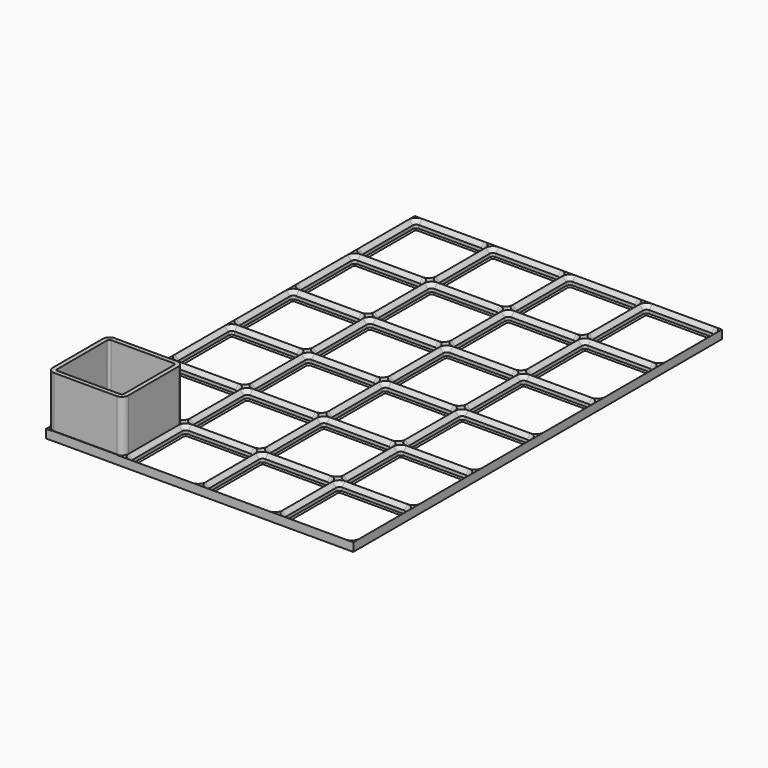
from build123d import *

# Parameters (mm, degrees)
SKETCH002_W            = 42
SKETCH002_H            = 42
LINEARPATTERN_COUNT    = 4
LINEARPATTERN_PITCH    = 42
LINEARPATTERN001_COUNT = 6
LINEARPATTERN001_PITCH = 42
LINEARPATTERN002_COUNT = 1
LINEARPATTERN002_PITCH = 0
LINEARPATTERN003_COUNT = 1
LINEARPATTERN003_PITCH = 0
PAD_DEPTH              = 28


with BuildPart() as base:
    # AdditivePipe: sweep along a path in Sketch003
    with BuildLine(Plane.XZ) as additivepipe_path:
        Line((-18.15, 0), (-18.15, -4.65))
    # Sketch002 → AdditivePipe (sweep)
    with BuildSketch(Plane.XY):
        Rectangle(SKETCH002_W, SKETCH002_H)
        with BuildLine():
            Line((-17, -18.15), (17, -18.15))
            ThreePointArc((17, -18.15), (17.813173, -17.813173), (18.15, -17))
            Line((18.15, -17), (18.15, 17))
            ThreePointArc((18.15, 17), (17.813173, 17.813173), (17, 18.15))
            Line((17, 18.15), (-17, 18.15))
            ThreePointArc((-17, 18.15), (-17.813173, 17.813173), (-18.15, 17))
            Line((-18.15, 17), (-18.15, -17))
            ThreePointArc((-18.15, -17), (-17.813173, -17.813173), (-17, -18.15))
        make_face(mode=Mode.SUBTRACT)
    sweep(path=additivepipe_path.line)

    # SubtractivePipe: sweep along a path in Sketch001
    with BuildLine(Plane.XY) as subtractivepipe_path:
        Line((21, -17), (21, 17))
        ThreePointArc((21, 17), (19.828427, 19.828427), (17, 21))
        Line((17, 21), (-17, 21))
        ThreePointArc((-17, 21), (-19.828427, 19.828427), (-21, 17))
        Line((-21, 17), (-21, -17))
        ThreePointArc((-21, -17), (-19.828427, -19.828427), (-17, -21))
        Line((-17, -21), (17, -21))
        ThreePointArc((17, -21), (19.828427, -19.828427), (21, -17))
    # Sketch → SubtractivePipe (sweep, cut)
    with BuildSketch(Plane.XZ):
        Polygon((-21, 0), (-18.85, -2.15), (-18.85, -3.95), (-18.15, -4.65), (-18.15, 0), align=None)
    sweep(path=subtractivepipe_path.line, mode=Mode.SUBTRACT)

    # LinearPattern: Base ×4


with BuildPart() as base_1:
    add(base.part)
    with Locations(*[(i * LINEARPATTERN_PITCH, 0, 0) for i in range(1, LINEARPATTERN_COUNT)]):
        add(base.part)

    # LinearPattern001: Base ×6


with BuildPart() as base_2:
    add(base_1.part)
    with Locations(*[(0, i * LINEARPATTERN001_PITCH, 0) for i in range(1, LINEARPATTERN001_COUNT)]):
        add(base_1.part)


with BuildPart() as basketfoot:
    # AdditivePipe001: sweep along a path in Sketch007
    with BuildLine(Plane.XZ) as additivepipe001_path:
        Line((-21, 0), (-21, -4.65))
    # Sketch006 → AdditivePipe001 (sweep)
    with BuildSketch(Plane.XY):
        with BuildLine():
            Line((-17, -20.75), (17, -20.75))
            ThreePointArc((17, -20.75), (19.65165, -19.65165), (20.75, -17))
            Line((20.75, -17), (20.75, 17))
            ThreePointArc((20.75, 17), (19.65165, 19.65165), (17, 20.75))
            Line((17, 20.75), (-17, 20.75))
            ThreePointArc((-17, 20.75), (-19.65165, 19.65165), (-20.75, 17))
            Line((-20.75, 17), (-20.75, -17))
            ThreePointArc((-20.75, -17), (-19.65165, -19.65165), (-17, -20.75))
        make_face()
    sweep(path=additivepipe001_path.line)

    # SubtractivePipe001: sweep along a path in Sketch005
    with BuildLine(Plane.XY) as subtractivepipe001_path:
        Line((-17, -21), (17, -21))
        ThreePointArc((17, -21), (19.828427, -19.828427), (21, -17))
        Line((21, -17), (21, 17))
        ThreePointArc((21, 17), (19.828427, 19.828427), (17, 21))
        Line((17, 21), (-17, 21))
        ThreePointArc((-17, 21), (-19.828427, 19.828427), (-21, 17))
        Line((-21, 17), (-21, -17))
        ThreePointArc((-21, -17), (-19.828427, -19.828427), (-17, -21))
    # Sketch004 → SubtractivePipe001 (sweep, cut)
    with BuildSketch(Plane.XZ):
        Polygon((-21, 0), (-18.85, -2.15), (-18.85, -3.95), (-18.15, -4.65), (-21, -4.65), align=None)
    sweep(path=subtractivepipe001_path.line, mode=Mode.SUBTRACT)

    # LinearPattern002: BasketFoot ×1


with BuildPart() as basketfoot_1:
    add(basketfoot.part)
    with Locations(*[(i * LINEARPATTERN002_PITCH, 0, 0) for i in range(1, LINEARPATTERN002_COUNT)]):
        add(basketfoot.part)

    # LinearPattern003: BasketFoot ×1


with BuildPart() as basketfoot_2:
    add(basketfoot_1.part)
    with Locations(*[(0, i * LINEARPATTERN003_PITCH, 0) for i in range(1, LINEARPATTERN003_COUNT)]):
        add(basketfoot_1.part)


with BuildPart() as basket:
    # Sketch008 → Pad (new body)
    with BuildSketch(Plane.XY):
        with BuildLine():
            Line((-20.5, 17.25), (-20.5, -17))
            ThreePointArc((-20.5, -17), (-19.474874, -19.474874), (-17, -20.5))
            Line((-17, -20.5), (17.25, -20.5))
            ThreePointArc((17.25, -20.5), (19.724874, -19.474874), (20.75, -17))
            Line((20.75, -17), (20.75, 17.25))
            ThreePointArc((20.75, 17.25), (19.724874, 19.724874), (17.25, 20.75))
            Line((17.25, 20.75), (-17, 20.75))
            ThreePointArc((-17, 20.75), (-19.474874, 19.724874), (-20.5, 17.25))
        make_face()
        with BuildLine():
            Line((17.25, 18.4), (-17, 18.4))
            ThreePointArc((-17, 18.4), (-17.813173, 18.063173), (-18.15, 17.25))
            Line((-18.15, 17.25), (-18.15, -17))
            ThreePointArc((-18.15, -17), (-17.813173, -17.813173), (-17, -18.15))
            Line((-17, -18.15), (17.25, -18.15))
            ThreePointArc((17.25, -18.15), (18.063173, -17.813173), (18.4, -17))
            Line((18.4, -17), (18.4, 17.25))
            ThreePointArc((18.4, 17.25), (18.063173, 18.063173), (17.25, 18.4))
        make_face(mode=Mode.SUBTRACT)
    extrude(amount=PAD_DEPTH)


solid = Compound([base_2.part, basketfoot_2.part, basket.part])
